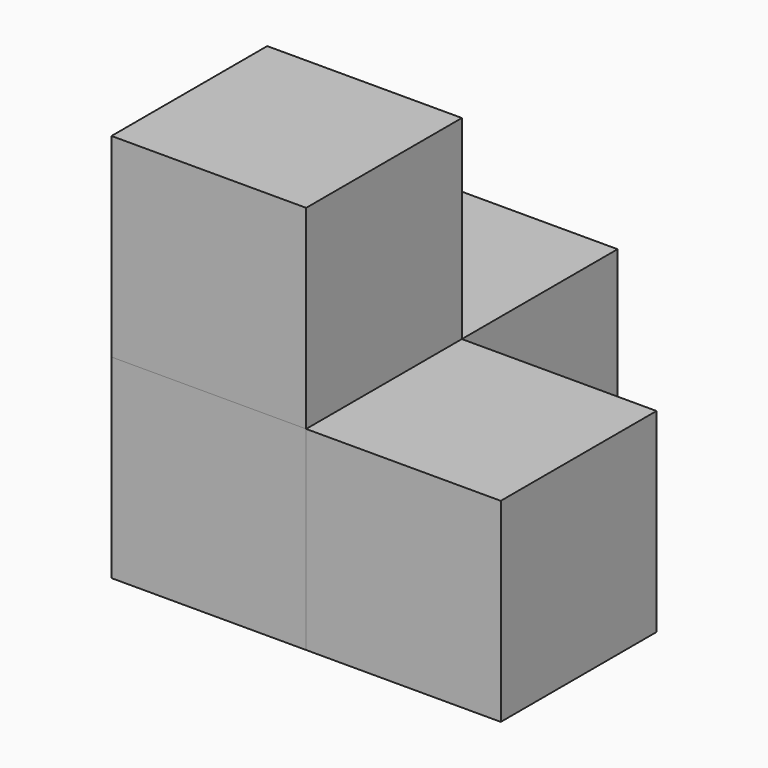
from build123d import *

# Parameters (mm, degrees)
BOX_W        = 10
BOX_H        = 10
BOX_DEPTH    = 10
BOX001_W     = 10
BOX001_H     = 10
BOX001_DEPTH = 10
BOX002_W     = 10
BOX002_H     = 10
BOX002_DEPTH = 10
BOX003_W     = 10
BOX003_H     = 10
BOX003_DEPTH = 10


with BuildPart() as obj1:
    # Box → Box (new body)
    with BuildSketch(Plane.XY):
        with Locations((5, 5)):
            Rectangle(BOX_W, BOX_H)
    extrude(amount=BOX_DEPTH)


with BuildPart() as obj2:
    # Box001 → Box001 (new body)
    with BuildSketch(Plane(origin=(10, 0, 0), x_dir=(1, 0, 0), z_dir=(0, 0, 1))):
        with Locations((5, 5)):
            Rectangle(BOX001_W, BOX001_H)
    extrude(amount=BOX001_DEPTH)


with BuildPart() as obj3:
    # Box002 → Box002 (new body)
    with BuildSketch(Plane(origin=(0, 10, 0), x_dir=(1, 0, 0), z_dir=(0, 0, 1))):
        with Locations((5, 5)):
            Rectangle(BOX002_W, BOX002_H)
    extrude(amount=BOX002_DEPTH)


with BuildPart() as cub:
    # Box003 → Box003 (new body)
    with BuildSketch(Plane.XY.offset(10)):
        with Locations((5, 5)):
            Rectangle(BOX003_W, BOX003_H)
    extrude(amount=BOX003_DEPTH)


solid = Compound([obj1.part, obj2.part, obj3.part, cub.part])
